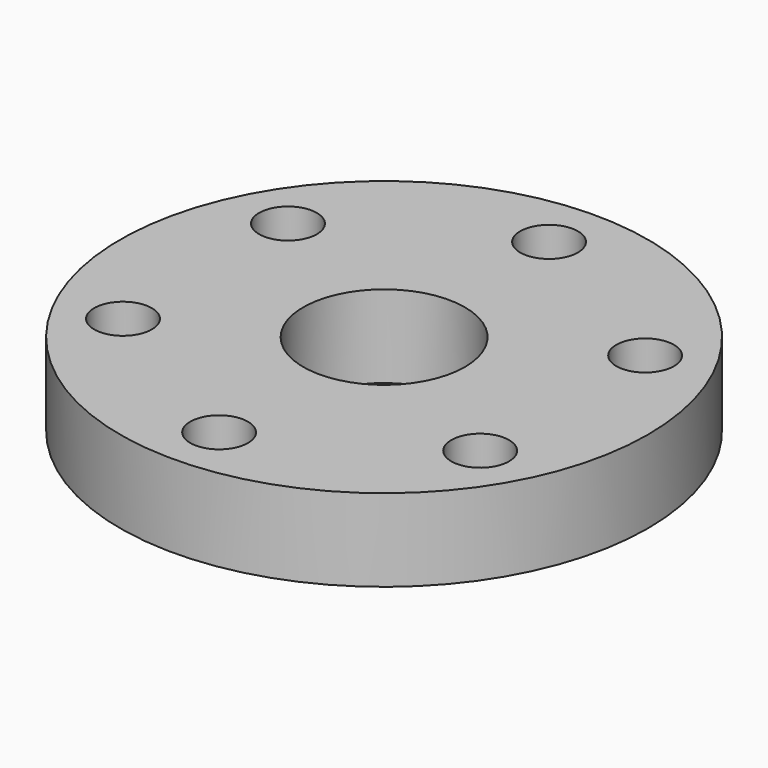
from build123d import *

# Parameters (mm, degrees)
F0_R     = 16
F0_R_2   = 4.9
F1_DEPTH = 5
F2_R     = 1.75
F3_DEPTH = 25


with BuildPart() as f1:
    # F0 (on Top) → F1 (new body)
    with BuildSketch(Plane.XY):
        Circle(F0_R)
        Circle(F0_R_2, mode=Mode.SUBTRACT)
    extrude(amount=F1_DEPTH)

    # F2 (on face) → F3 (cut)
    with BuildSketch(Plane.XY.offset(5)):
        with Locations((0, 12.5)):
            Circle(F2_R)
        with Locations((10.825318, 6.25)):
            Circle(F2_R)
        with Locations((10.825318, -6.25)):
            Circle(F2_R)
        with Locations((0, -12.5)):
            Circle(F2_R)
        with Locations((-10.825318, -6.25)):
            Circle(F2_R)
        with Locations((-10.825318, 6.25)):
            Circle(F2_R)
    extrude(amount=-F3_DEPTH, mode=Mode.SUBTRACT)


solid = f1.part
